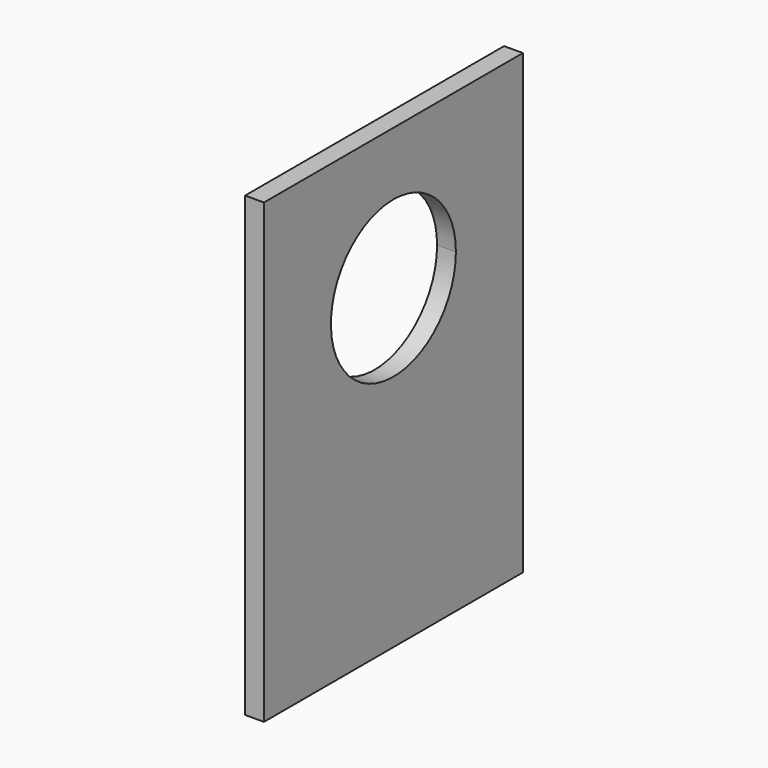
from build123d import *

# Parameters (mm, degrees)
F1_DEPTH = 10


with BuildPart() as f1:
    # F0 (on Right) → F1 (new body)
    with BuildSketch(Plane.YZ):
        Polygon((86, -121.5), (86, 121.5), (0, 121.5), (-86, 121.5), (-86, -121.5), align=None)
        with BuildLine():
            ThreePointArc((41.5, 46.5), (-29.344931, 17.155069), (0, 88))
            ThreePointArc((0, 88), (29.344931, 75.844931), (41.5, 46.5))
        make_face(mode=Mode.SUBTRACT)
    extrude(amount=F1_DEPTH)


solid = f1.part
